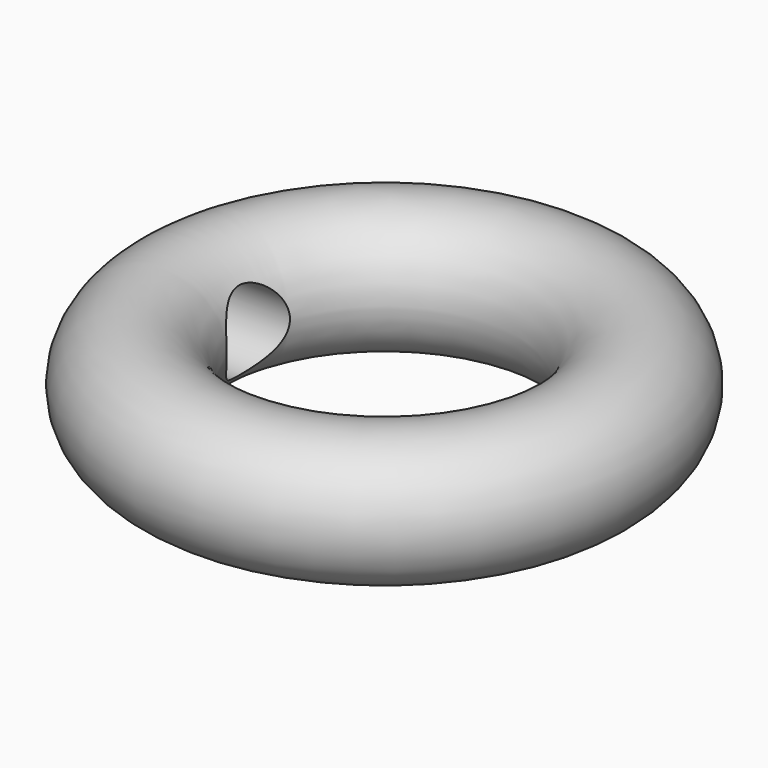
from build123d import *

# Parameters (mm, degrees)
F0_R     = 10
F5_R     = 6
F6_DEPTH = 25


with BuildPart() as f1:
    # F0 (on Front) → F1 (revolve)
    with BuildSketch(Plane.XZ):
        Circle(F0_R)
    revolve(axis=Axis((30, 0, 10.425732), (0, 0, -1)))

    # F5 (on offset) → F6 (cut)
    with BuildSketch(Plane.YZ.offset(-10)):
        Circle(F5_R)
    extrude(amount=F6_DEPTH, mode=Mode.SUBTRACT)


solid = f1.part
